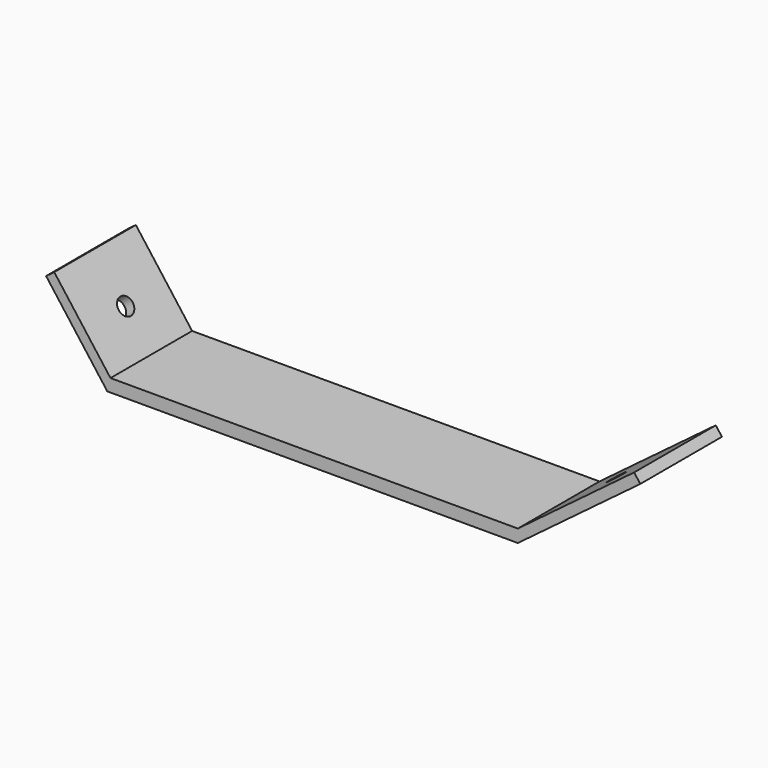
from build123d import *

# Parameters (mm, degrees)
F1_DEPTH = 25.4
F2_R     = 2.15265
F4_DEPTH = 25.4
F3_R     = 2.15265
F5_DEPTH = 25.4


with BuildPart() as f1:
    # F0 (on Front) → F1 (new body)
    with BuildSketch(Plane.XZ):
        Polygon((-66.6809173423, 16.451433301), (35.5159826577, 16.451433301), (65.9959826577, 39.311433301), (64.4719826577, 41.343433301), (35.5159826577, 19.626433301), (-65.8871673423, 19.626433301), (-79.8889173423, 38.295433301), (-81.9209173423, 36.771433301), align=None)
    extrude(amount=F1_DEPTH)

    # F2 (on face) → F4 (cut)
    with BuildSketch(Plane(origin=(4.8890657723, 0, -6.5187543631), x_dir=(0.8, 0, 0.6), z_dir=(0.6, 0, -0.8))):
        with Locations((58.1185061067, 12.7)):
            Circle(F2_R)
    extrude(amount=-F4_DEPTH, mode=Mode.SUBTRACT)

    # F3 (on face) → F5 (cut)
    with BuildSketch(Plane(origin=(-34.7790991146, 0, -26.084324336), x_dir=(0, -1, 0), z_dir=(-0.8, 0, -0.6))):
        with Locations((12.7, 65.8696970462)):
            Circle(F3_R)
    extrude(amount=-F5_DEPTH, mode=Mode.SUBTRACT)


solid = f1.part
